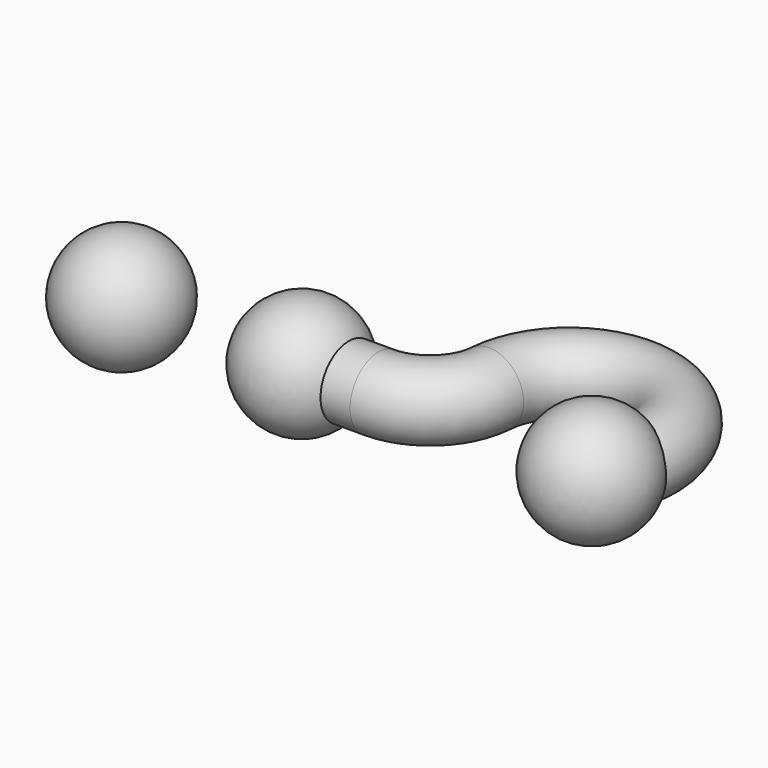
from build123d import *

# Parameters (mm, degrees)
F3_R = 19.05


with BuildPart() as f1:
    # F0 (on Top) → F1 (revolve)
    with BuildSketch(Plane.XY):
        with BuildLine():
            ThreePointArc((-31.75, 0), (0, -31.75), (31.75, 0))
            Line((31.75, 0), (-31.75, 0))
        make_face()
    revolve(axis=Axis((0, 0, 0), (1, 0, 0)))


with BuildPart() as f2:
    # F0 (on Top) → F2 (revolve)
    with BuildSketch(Plane.XY):
        with BuildLine():
            ThreePointArc((124.4464452267, 0), (156.1964452267, -31.75), (187.9464452267, 0))
            Line((187.9464452267, 0), (124.4464452267, 0))
        make_face()
    revolve(axis=Axis((156.1964452267, 0, 0), (1, 0, 0)))


with BuildPart() as f5:
    # F5: sweep along a path in F4
    with BuildLine(Plane.XY) as f5_path:
        Line((0, 0), (41.252117604, 0))
        ThreePointArc((41.252117604, 0), (64.9068763527, 9.2549139866), (76.0005190959, 32.1051248181))
        ThreePointArc((76.0005190959, 32.1051248181), (137.9072836676, 70.5291310102), (156.1964452267, 0))
    # F3 (on Right) → F5 (sweep)
    with BuildSketch(Plane.YZ):
        Circle(F3_R)
    sweep(path=f5_path.line)


with BuildPart() as f7:
    # F6 (on Top) → F7 (revolve)
    with BuildSketch(Plane.XY):
        with BuildLine():
            Line((-97.0487499492, -31.75), (-97.0487499492, 31.75))
            ThreePointArc((-97.0487499492, 31.75), (-128.7987499492, 0), (-97.0487499492, -31.75))
        make_face()
    revolve(axis=Axis((-97.0487499492, 0, 0), (0, 1, 0)))


solid = Compound([f1.part, f2.part, f5.part, f7.part])
